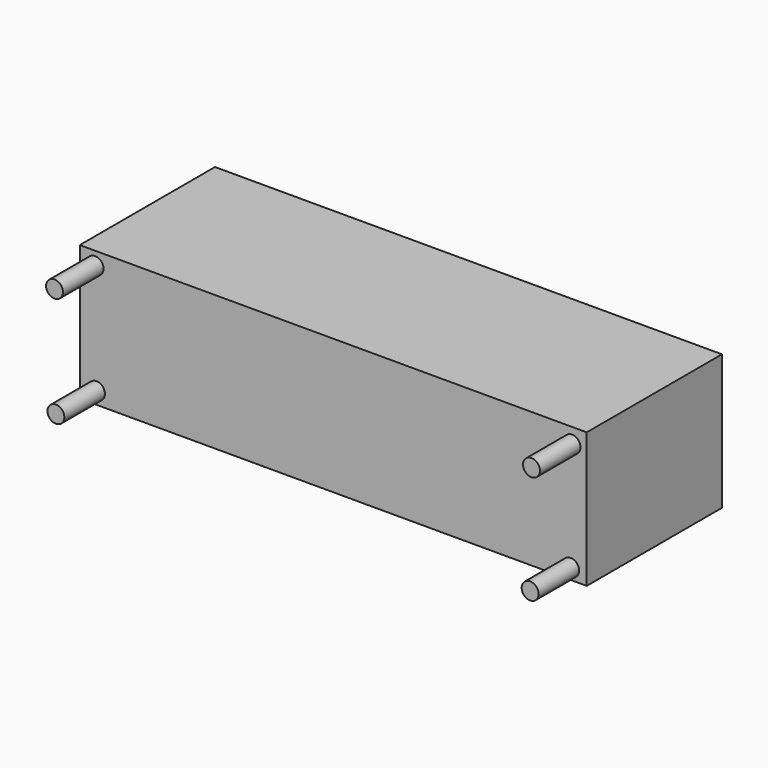
from build123d import *

# Parameters (mm, degrees)
SKETCH_W      = 1500
SKETCH_H      = 400
PAD_DEPTH     = 500
SKETCH001_R   = 25
PAD001_DEPTH  = 150
SKETCH002_W   = 679.455933
SKETCH002_H   = 179.177673
SKETCH002_W_2 = 683.003968
SKETCH002_H_2 = 221.754555
POCKET_DEPTH  = 300


with BuildPart() as part:
    # Sketch → Pad (new body)
    with BuildSketch(Plane.XZ):
        with Locations((750, 200)):
            Rectangle(SKETCH_W, SKETCH_H)
    extrude(amount=PAD_DEPTH)

    # Sketch001 (on Face6 of Pad) → Pad001 (join)
    with BuildSketch(Plane.XZ.offset(500)):
        with Locations((45.287163, 361.134674)):
            Circle(SKETCH001_R)
        with Locations((49.395683, 36.55888)):
            Circle(SKETCH001_R)
        with Locations((1456.575439, 354.971802)):
            Circle(SKETCH001_R)
        with Locations((1452.466797, 32.450348)):
            Circle(SKETCH001_R)
    extrude(amount=PAD001_DEPTH)

    # Sketch002 (on Face1 of Pad001) → Pocket (cut)
    with BuildSketch(Plane(origin=(0, 0, 0), x_dir=(1, 0, 0), z_dir=(0, 0, -1))):
        with Locations((774.28888, 379.377991)):
            Rectangle(SKETCH002_W, SKETCH002_H)
        with Locations((772.514862, 148.753246)):
            Rectangle(SKETCH002_W_2, SKETCH002_H_2)
    extrude(amount=-POCKET_DEPTH, mode=Mode.SUBTRACT)


solid = part.part
